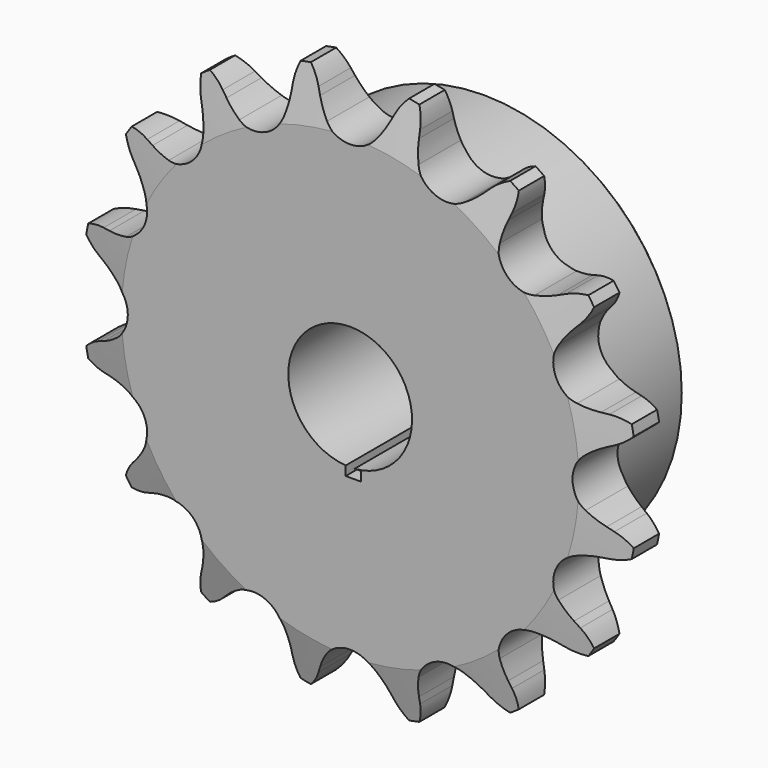
from build123d import *

# Parameters (mm, degrees)
F2_SIZE2 = 6.35
F2_SIZE  = 1.5748
F4_DEPTH = 22.226
F5_R     = 1.5875
F6_SIZE  = 0.79375
F7_W     = 1.9830195233
F7_H     = 1.1972943321
F8_DEPTH = 25.4


with BuildPart() as f1:
    # F0 (on Right) → F1 (revolve)
    with BuildSketch(Plane.YZ):
        Polygon((7.2136, 35.687), (0, 35.687), (0, 7.9375), (22.225, 7.9375), (22.225, 25.4), (7.2136, 25.4), align=None)
    revolve(axis=Axis((0, 11.1125, 0), (0, 1, 0)))

    # F2
    f2_edges = [f1.edges().sort_by_distance(p)[0] for p in [
        (0, 0, -35.687),
        (0, 7.2136, -35.687),
    ]]
    f2_side = f1.faces().sort_by_distance((0, 3.6068, -35.687))[0]
    chamfer(f2_edges, length=F2_SIZE, length2=F2_SIZE2, reference=f2_side)

    # F3 (on face) → F4 (intersect, through all)
    with BuildSketch(Plane.XZ):
        with BuildLine():
            ThreePointArc((-3.135378946, 30.0324223537), (-3.8892356196, 31.1040576592), (-4.5018259003, 32.2622611215))
            Line((-4.5018259003, 32.2622611215), (-4.8750905634, 33.0908779473))
            ThreePointArc((-4.8750905634, 33.0908779473), (-5.8139766931, 34.5945142721), (-7.119753928, 35.7934200962))
            ThreePointArc((-7.119753928, 35.7934200962), (-7.8673333934, 34.1860762298), (-8.1593343622, 32.4376012383))
            Line((-8.1593343622, 32.4376012383), (-8.1870880136, 31.5292169101))
            ThreePointArc((-8.1870880136, 31.5292169101), (-8.3098223594, 30.2247482855), (-8.5961980337, 28.9461979011))
            ThreePointArc((-8.5961980337, 28.9461979011), (-10.9173911885, 26.3569138731), (-14.3896229034, 26.5464827475))
            ThreePointArc((-14.3896229034, 26.5464827475), (-15.4961927315, 27.2480562132), (-16.5053776301, 28.0836685352))
            Line((-16.5053776301, 28.0836685352), (-17.1673271435, 28.7063684585))
            ThreePointArc((-17.1673271435, 28.7063684585), (-18.610161532, 29.7362511166), (-20.2753437891, 30.3441963547))
            ThreePointArc((-20.2753437891, 30.3441963547), (-20.3509132883, 28.5731179791), (-19.9515745957, 26.8459937882))
            Line((-19.9515745957, 26.8459937882), (-19.6295919936, 25.9961352373))
            ThreePointArc((-19.6295919936, 25.9961352373), (-19.243785213, 24.7439949735), (-19.0190817875, 23.4531772161))
            ThreePointArc((-19.0190817875, 23.4531772161), (-20.172708535, 20.172708535), (-23.4531772161, 19.0190817875))
            ThreePointArc((-23.4531772161, 19.0190817875), (-24.7439949735, 19.243785213), (-25.9961352373, 19.6295919936))
            Line((-25.9961352373, 19.6295919936), (-26.8459937882, 19.9515745957))
            ThreePointArc((-26.8459937882, 19.9515745957), (-28.5731179791, 20.3509132883), (-30.3441963547, 20.2753437891))
            ThreePointArc((-30.3441963547, 20.2753437891), (-29.7362511166, 18.610161532), (-28.7063684585, 17.1673271435))
            Line((-28.7063684585, 17.1673271435), (-28.0836685352, 16.5053776301))
            ThreePointArc((-28.0836685352, 16.5053776301), (-27.2480562132, 15.4961927315), (-26.5464827475, 14.3896229034))
            ThreePointArc((-26.5464827475, 14.3896229034), (-26.3569138731, 10.9173911885), (-28.9461979011, 8.5961980337))
            ThreePointArc((-28.9461979011, 8.5961980337), (-30.2247482855, 8.3098223594), (-31.5292169101, 8.1870880136))
            Line((-31.5292169101, 8.1870880136), (-32.4376012383, 8.1593343622))
            ThreePointArc((-32.4376012383, 8.1593343622), (-34.1860762298, 7.8673333934), (-35.7934200962, 7.119753928))
            ThreePointArc((-35.7934200962, 7.119753928), (-34.5945142721, 5.8139766931), (-33.0908779473, 4.8750905634))
            Line((-33.0908779473, 4.8750905634), (-32.2622611215, 4.5018259003))
            ThreePointArc((-32.2622611215, 4.5018259003), (-31.1040576592, 3.8892356196), (-30.0324223537, 3.135378946))
            ThreePointArc((-30.0324223537, 3.135378946), (-28.528518, 0), (-30.0324223537, -3.135378946))
            ThreePointArc((-30.0324223537, -3.135378946), (-31.1040576592, -3.8892356196), (-32.2622611215, -4.5018259003))
            Line((-32.2622611215, -4.5018259003), (-33.0908779473, -4.8750905634))
            ThreePointArc((-33.0908779473, -4.8750905634), (-34.5945142721, -5.8139766931), (-35.7934200962, -7.119753928))
            ThreePointArc((-35.7934200962, -7.119753928), (-34.1860762298, -7.8673333934), (-32.4376012383, -8.1593343622))
            Line((-32.4376012383, -8.1593343622), (-31.5292169101, -8.1870880136))
            ThreePointArc((-31.5292169101, -8.1870880136), (-30.2247482855, -8.3098223594), (-28.9461979011, -8.5961980337))
            ThreePointArc((-28.9461979011, -8.5961980337), (-26.3569138731, -10.9173911885), (-26.5464827475, -14.3896229034))
            ThreePointArc((-26.5464827475, -14.3896229034), (-27.2480562132, -15.4961927315), (-28.0836685352, -16.5053776301))
            Line((-28.0836685352, -16.5053776301), (-28.7063684585, -17.1673271435))
            ThreePointArc((-28.7063684585, -17.1673271435), (-29.7362511166, -18.610161532), (-30.3441963547, -20.2753437891))
            ThreePointArc((-30.3441963547, -20.2753437891), (-28.5731179791, -20.3509132883), (-26.8459937882, -19.9515745957))
            Line((-26.8459937882, -19.9515745957), (-25.9961352373, -19.6295919936))
            ThreePointArc((-25.9961352373, -19.6295919936), (-24.7439949735, -19.243785213), (-23.4531772161, -19.0190817875))
            ThreePointArc((-23.4531772161, -19.0190817875), (-20.172708535, -20.172708535), (-19.0190817875, -23.4531772161))
            ThreePointArc((-19.0190817875, -23.4531772161), (-19.243785213, -24.7439949735), (-19.6295919936, -25.9961352373))
            Line((-19.6295919936, -25.9961352373), (-19.9515745957, -26.8459937882))
            ThreePointArc((-19.9515745957, -26.8459937882), (-20.3509132883, -28.5731179791), (-20.2753437891, -30.3441963547))
            ThreePointArc((-20.2753437891, -30.3441963547), (-18.610161532, -29.7362511166), (-17.1673271435, -28.7063684585))
            Line((-17.1673271435, -28.7063684585), (-16.5053776301, -28.0836685352))
            ThreePointArc((-16.5053776301, -28.0836685352), (-15.4961927315, -27.2480562132), (-14.3896229034, -26.5464827475))
            ThreePointArc((-14.3896229034, -26.5464827475), (-10.9173911885, -26.3569138731), (-8.5961980337, -28.9461979011))
            ThreePointArc((-8.5961980337, -28.9461979011), (-8.3098223594, -30.2247482855), (-8.1870880136, -31.5292169101))
            Line((-8.1870880136, -31.5292169101), (-8.1593343622, -32.4376012383))
            ThreePointArc((-8.1593343622, -32.4376012383), (-7.8673333934, -34.1860762298), (-7.119753928, -35.7934200962))
            ThreePointArc((-7.119753928, -35.7934200962), (-5.8139766931, -34.5945142721), (-4.8750905634, -33.0908779473))
            Line((-4.8750905634, -33.0908779473), (-4.5018259003, -32.2622611215))
            ThreePointArc((-4.5018259003, -32.2622611215), (-3.8892356196, -31.1040576592), (-3.135378946, -30.0324223537))
            ThreePointArc((-3.135378946, -30.0324223537), (0, -28.528518), (3.135378946, -30.0324223537))
            ThreePointArc((3.135378946, -30.0324223537), (3.8892356196, -31.1040576592), (4.5018259003, -32.2622611215))
            Line((4.5018259003, -32.2622611215), (4.8750905634, -33.0908779473))
            ThreePointArc((4.8750905634, -33.0908779473), (5.8139766931, -34.5945142721), (7.119753928, -35.7934200962))
            ThreePointArc((7.119753928, -35.7934200962), (7.8673333934, -34.1860762298), (8.1593343622, -32.4376012383))
            Line((8.1593343622, -32.4376012383), (8.1870880136, -31.5292169101))
            ThreePointArc((8.1870880136, -31.5292169101), (8.3098223594, -30.2247482855), (8.5961980337, -28.9461979011))
            ThreePointArc((8.5961980337, -28.9461979011), (10.9173911885, -26.3569138731), (14.3896229034, -26.5464827475))
            ThreePointArc((14.3896229034, -26.5464827475), (15.4961927315, -27.2480562132), (16.5053776301, -28.0836685352))
            Line((16.5053776301, -28.0836685352), (17.1673271435, -28.7063684585))
            ThreePointArc((17.1673271435, -28.7063684585), (18.610161532, -29.7362511166), (20.2753437891, -30.3441963547))
            ThreePointArc((20.2753437891, -30.3441963547), (20.3509132883, -28.5731179791), (19.9515745957, -26.8459937882))
            Line((19.9515745957, -26.8459937882), (19.6295919936, -25.9961352373))
            ThreePointArc((19.6295919936, -25.9961352373), (19.243785213, -24.7439949735), (19.0190817875, -23.4531772161))
            ThreePointArc((19.0190817875, -23.4531772161), (20.172708535, -20.172708535), (23.4531772161, -19.0190817875))
            ThreePointArc((23.4531772161, -19.0190817875), (24.7439949735, -19.243785213), (25.9961352373, -19.6295919936))
            Line((25.9961352373, -19.6295919936), (26.8459937882, -19.9515745957))
            ThreePointArc((26.8459937882, -19.9515745957), (28.5731179791, -20.3509132883), (30.3441963547, -20.2753437891))
            ThreePointArc((30.3441963547, -20.2753437891), (29.7362511166, -18.610161532), (28.7063684585, -17.1673271435))
            Line((28.7063684585, -17.1673271435), (28.0836685352, -16.5053776301))
            ThreePointArc((28.0836685352, -16.5053776301), (27.2480562132, -15.4961927315), (26.5464827475, -14.3896229034))
            ThreePointArc((26.5464827475, -14.3896229034), (26.3569138731, -10.9173911885), (28.9461979011, -8.5961980337))
            ThreePointArc((28.9461979011, -8.5961980337), (30.2247482855, -8.3098223594), (31.5292169101, -8.1870880136))
            Line((31.5292169101, -8.1870880136), (32.4376012383, -8.1593343622))
            ThreePointArc((32.4376012383, -8.1593343622), (34.1860762298, -7.8673333934), (35.7934200962, -7.119753928))
            ThreePointArc((35.7934200962, -7.119753928), (34.5945142721, -5.8139766931), (33.0908779473, -4.8750905634))
            Line((33.0908779473, -4.8750905634), (32.2622611215, -4.5018259003))
            ThreePointArc((32.2622611215, -4.5018259003), (31.1040576592, -3.8892356196), (30.0324223537, -3.135378946))
            ThreePointArc((30.0324223537, -3.135378946), (28.528518, 0), (30.0324223537, 3.135378946))
            ThreePointArc((30.0324223537, 3.135378946), (31.1040576592, 3.8892356196), (32.2622611215, 4.5018259003))
            Line((32.2622611215, 4.5018259003), (33.0908779473, 4.8750905634))
            ThreePointArc((33.0908779473, 4.8750905634), (34.5945142721, 5.8139766931), (35.7934200962, 7.119753928))
            ThreePointArc((35.7934200962, 7.119753928), (34.1860762298, 7.8673333934), (32.4376012383, 8.1593343622))
            Line((32.4376012383, 8.1593343622), (31.5292169101, 8.1870880136))
            ThreePointArc((31.5292169101, 8.1870880136), (30.2247482855, 8.3098223594), (28.9461979011, 8.5961980337))
            ThreePointArc((28.9461979011, 8.5961980337), (26.3569138731, 10.9173911885), (26.5464827475, 14.3896229034))
            ThreePointArc((26.5464827475, 14.3896229034), (27.2480562132, 15.4961927315), (28.0836685352, 16.5053776301))
            Line((28.0836685352, 16.5053776301), (28.7063684585, 17.1673271435))
            ThreePointArc((28.7063684585, 17.1673271435), (29.7362511166, 18.610161532), (30.3441963547, 20.2753437891))
            ThreePointArc((30.3441963547, 20.2753437891), (28.5731179791, 20.3509132883), (26.8459937882, 19.9515745957))
            Line((26.8459937882, 19.9515745957), (25.9961352373, 19.6295919936))
            ThreePointArc((25.9961352373, 19.6295919936), (24.7439949735, 19.243785213), (23.4531772161, 19.0190817875))
            ThreePointArc((23.4531772161, 19.0190817875), (20.172708535, 20.172708535), (19.0190817875, 23.4531772161))
            ThreePointArc((19.0190817875, 23.4531772161), (19.243785213, 24.7439949735), (19.6295919936, 25.9961352373))
            Line((19.6295919936, 25.9961352373), (19.9515745957, 26.8459937882))
            ThreePointArc((19.9515745957, 26.8459937882), (20.3509132883, 28.5731179791), (20.2753437891, 30.3441963547))
            ThreePointArc((20.2753437891, 30.3441963547), (18.610161532, 29.7362511166), (17.1673271435, 28.7063684585))
            Line((17.1673271435, 28.7063684585), (16.5053776301, 28.0836685352))
            ThreePointArc((16.5053776301, 28.0836685352), (15.4961927315, 27.2480562132), (14.3896229034, 26.5464827475))
            ThreePointArc((14.3896229034, 26.5464827475), (10.9173911885, 26.3569138731), (8.5961980337, 28.9461979011))
            ThreePointArc((8.5961980337, 28.9461979011), (8.3098223594, 30.2247482855), (8.1870880136, 31.5292169101))
            Line((8.1870880136, 31.5292169101), (8.1593343622, 32.4376012383))
            ThreePointArc((8.1593343622, 32.4376012383), (7.8673333934, 34.1860762298), (7.119753928, 35.7934200962))
            ThreePointArc((7.119753928, 35.7934200962), (5.8139766931, 34.5945142721), (4.8750905634, 33.0908779473))
            Line((4.8750905634, 33.0908779473), (4.5018259003, 32.2622611215))
            ThreePointArc((4.5018259003, 32.2622611215), (3.8892356196, 31.1040576592), (3.135378946, 30.0324223537))
            ThreePointArc((3.135378946, 30.0324223537), (0, 28.528518), (-3.135378946, 30.0324223537))
        make_face()
    extrude(amount=-F4_DEPTH, mode=Mode.INTERSECT)

    # F5
    f5_edges = [f1.edges().sort_by_distance(p)[0] for p in [
        (0, 7.2136, -25.4),
    ]]
    fillet(f5_edges, radius=F5_R)

    # F6
    f6_edges = [f1.edges().sort_by_distance(p)[0] for p in [
        (0, 22.225, -25.4),
    ]]
    chamfer(f6_edges, length=F6_SIZE)

    # F7 (on face) → F8 (cut)
    with BuildSketch(Plane.XZ):
        with Locations((0.4169266904, -8.5155819543)):
            Rectangle(F7_W, F7_H)
    extrude(amount=-F8_DEPTH, mode=Mode.SUBTRACT)


solid = f1.part
